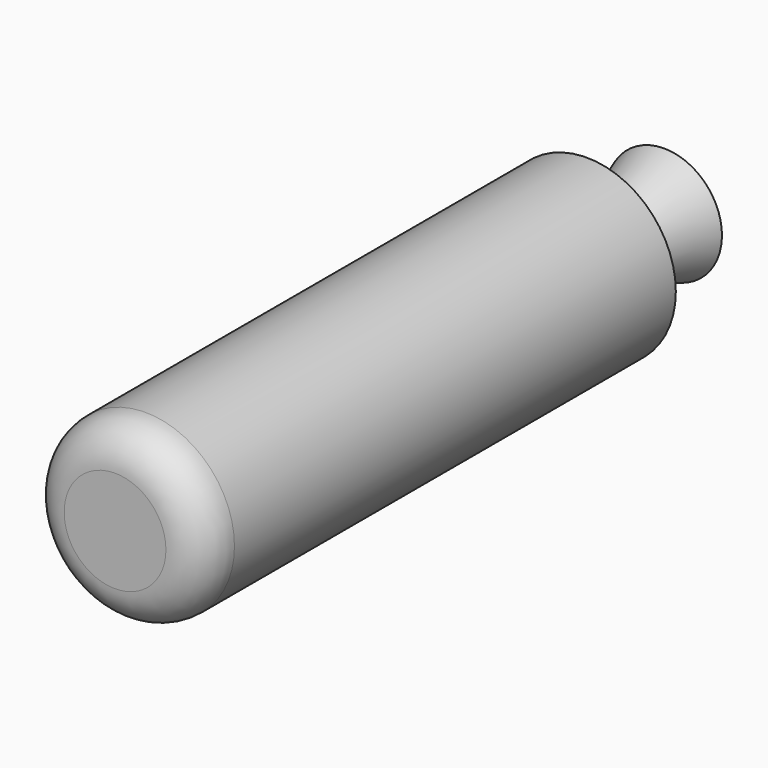
from build123d import *

# Parameters (mm, degrees)
F0_R     = 1168.4
F1_DEPTH = 7747
F4_R     = 500


with BuildPart() as f1:
    # F0 (on Front) → F1 (new body)
    with BuildSketch(Plane.XZ):
        Circle(F0_R)
    extrude(amount=F1_DEPTH)

    # F2 (on Right) → F3 (revolve)
    with BuildSketch(Plane.YZ):
        Polygon((0, 341.825306), (0, 0), (1270, 0), (1270, 758.19), align=None)
    revolve(axis=Axis((0, 635, 0), (0, 1, 0)))

    # F4
    f4_edges = [f1.edges().sort_by_distance(p)[0] for p in [
        (-1168.4, -7747, 0),
    ]]
    fillet(f4_edges, radius=F4_R)


solid = f1.part
